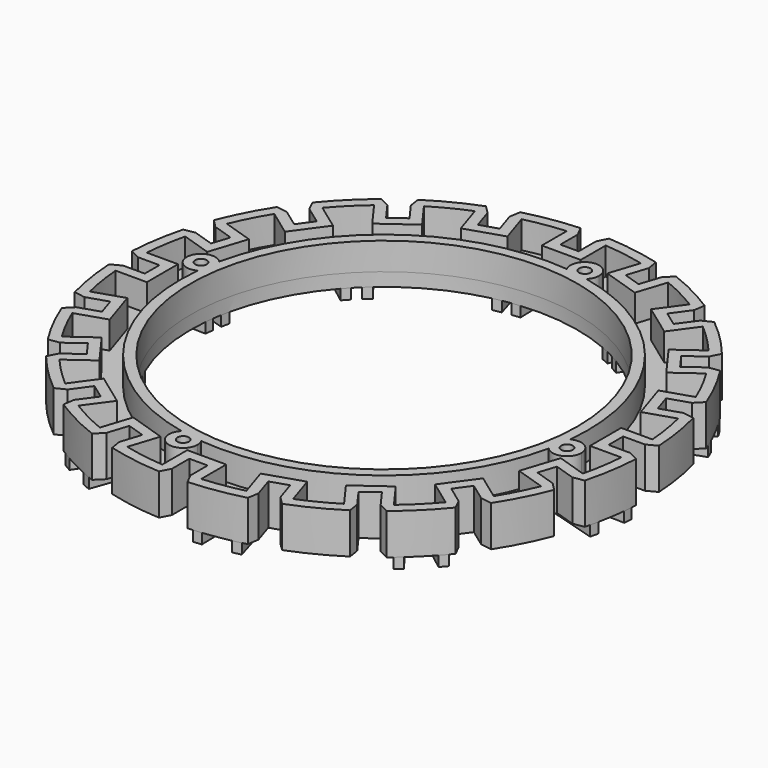
from build123d import *

# Parameters (mm, degrees)
F0_R     = 37.5
F0_R_2   = 1.125
F1_DEPTH = 2.6
F2_DEPTH = 5.3
F4_DEPTH = 2
F9_COUNT = 10


with BuildPart() as f1:
    # F0 (on Top) → F1 (new body)
    with BuildSketch(Plane.XY):
        with BuildLine():
            Line((-1.775, -49.15), (-1.775, -44.95))
            Line((-1.775, -44.95), (1.775, -44.95))
            Line((1.775, -44.95), (1.775, -49.15))
            Line((1.775, -49.15), (2.775, -51.0746696025))
            ThreePointArc((2.775, -51.0746696025), (8.0016228868, -50.5202586214), (13.1437590565, -49.4324195024))
            Line((13.1437590565, -49.4324195024), (13.5000599571, -47.2929329409))
            Line((13.5000599571, -47.2929329409), (12.2021885807, -43.2984955725))
            Line((12.2021885807, -43.2984955725), (15.5784392136, -42.2014852425))
            Line((15.5784392136, -42.2014852425), (16.87631059, -46.1959226109))
            Line((16.87631059, -46.1959226109), (18.422122722, -47.7173751836))
            ThreePointArc((18.422122722, -47.7173751836), (23.2216140617, -45.5749837122), (27.7759153986, -42.9513797656))
            Line((27.7759153986, -42.9513797656), (27.4536399852, -40.8065040963))
            Line((27.4536399852, -40.8065040963), (24.9849419255, -37.40863272))
            Line((24.9849419255, -37.40863272), (27.8569522556, -35.3219950743))
            Line((27.8569522556, -35.3219950743), (30.3256503152, -38.7198664507))
            Line((30.3256503152, -38.7198664507), (32.2659597174, -39.6891716154))
            ThreePointArc((32.2659597174, -39.6891716154), (36.1685118577, -36.1685118577), (39.6891716154, -32.2659597174))
            Line((39.6891716154, -32.2659597174), (38.7198664507, -30.3256503152))
            Line((38.7198664507, -30.3256503152), (35.3219950743, -27.8569522556))
            Line((35.3219950743, -27.8569522556), (37.40863272, -24.9849419255))
            Line((37.40863272, -24.9849419255), (40.8065040963, -27.4536399852))
            Line((40.8065040963, -27.4536399852), (42.9513797656, -27.7759153986))
            ThreePointArc((42.9513797656, -27.7759153986), (45.5749837122, -23.2216140617), (47.7173751836, -18.422122722))
            Line((47.7173751836, -18.422122722), (46.1959226109, -16.87631059))
            Line((46.1959226109, -16.87631059), (42.2014852425, -15.5784392136))
            Line((42.2014852425, -15.5784392136), (43.2984955725, -12.2021885807))
            Line((43.2984955725, -12.2021885807), (47.2929329409, -13.5000599571))
            Line((47.2929329409, -13.5000599571), (49.4324195024, -13.1437590565))
            ThreePointArc((49.4324195024, -13.1437590565), (50.5202586214, -8.0016228868), (51.0746696025, -2.775))
            Line((51.0746696025, -2.775), (49.15, -1.775))
            Line((49.15, -1.775), (44.95, -1.775))
            Line((44.95, -1.775), (44.95, 1.775))
            Line((44.95, 1.775), (49.15, 1.775))
            Line((49.15, 1.775), (51.0746696025, 2.775))
            ThreePointArc((51.0746696025, 2.775), (50.5202586214, 8.0016228868), (49.4324195024, 13.1437590565))
            Line((49.4324195024, 13.1437590565), (47.2929329409, 13.5000599571))
            Line((47.2929329409, 13.5000599571), (43.2984955725, 12.2021885807))
            Line((43.2984955725, 12.2021885807), (42.2014852425, 15.5784392136))
            Line((42.2014852425, 15.5784392136), (46.1959226109, 16.87631059))
            Line((46.1959226109, 16.87631059), (47.7173751836, 18.422122722))
            ThreePointArc((47.7173751836, 18.422122722), (45.5749837122, 23.2216140617), (42.9513797656, 27.7759153986))
            Line((42.9513797656, 27.7759153986), (40.8065040963, 27.4536399852))
            Line((40.8065040963, 27.4536399852), (37.40863272, 24.9849419255))
            Line((37.40863272, 24.9849419255), (35.3219950743, 27.8569522556))
            Line((35.3219950743, 27.8569522556), (38.7198664507, 30.3256503152))
            Line((38.7198664507, 30.3256503152), (39.6891716154, 32.2659597174))
            ThreePointArc((39.6891716154, 32.2659597174), (36.1685118577, 36.1685118577), (32.2659597174, 39.6891716154))
            Line((32.2659597174, 39.6891716154), (30.3256503152, 38.7198664507))
            Line((30.3256503152, 38.7198664507), (27.8569522556, 35.3219950743))
            Line((27.8569522556, 35.3219950743), (24.9849419255, 37.40863272))
            Line((24.9849419255, 37.40863272), (27.4536399852, 40.8065040963))
            Line((27.4536399852, 40.8065040963), (27.7759153986, 42.9513797656))
            ThreePointArc((27.7759153986, 42.9513797656), (23.2216140617, 45.5749837122), (18.422122722, 47.7173751836))
            Line((18.422122722, 47.7173751836), (16.87631059, 46.1959226109))
            Line((16.87631059, 46.1959226109), (15.5784392136, 42.2014852425))
            Line((15.5784392136, 42.2014852425), (12.2021885807, 43.2984955725))
            Line((12.2021885807, 43.2984955725), (13.5000599571, 47.2929329409))
            Line((13.5000599571, 47.2929329409), (13.1437590565, 49.4324195024))
            ThreePointArc((13.1437590565, 49.4324195024), (8.0016228868, 50.5202586214), (2.775, 51.0746696025))
            Line((2.775, 51.0746696025), (1.775, 49.15))
            Line((1.775, 49.15), (1.775, 44.95))
            Line((1.775, 44.95), (-1.775, 44.95))
            Line((-1.775, 44.95), (-1.775, 49.15))
            Line((-1.775, 49.15), (-2.775, 51.0746696025))
            ThreePointArc((-2.775, 51.0746696025), (-8.0016228868, 50.5202586214), (-13.1437590565, 49.4324195024))
            Line((-13.1437590565, 49.4324195024), (-13.5000599571, 47.2929329409))
            Line((-13.5000599571, 47.2929329409), (-12.2021885807, 43.2984955725))
            Line((-12.2021885807, 43.2984955725), (-15.5784392136, 42.2014852425))
            Line((-15.5784392136, 42.2014852425), (-16.87631059, 46.1959226109))
            Line((-16.87631059, 46.1959226109), (-18.422122722, 47.7173751836))
            ThreePointArc((-18.422122722, 47.7173751836), (-23.2216140617, 45.5749837122), (-27.7759153986, 42.9513797656))
            Line((-27.7759153986, 42.9513797656), (-27.4536399852, 40.8065040963))
            Line((-27.4536399852, 40.8065040963), (-24.9849419255, 37.40863272))
            Line((-24.9849419255, 37.40863272), (-27.8569522556, 35.3219950743))
            Line((-27.8569522556, 35.3219950743), (-30.3256503152, 38.7198664507))
            Line((-30.3256503152, 38.7198664507), (-32.2659597174, 39.6891716154))
            ThreePointArc((-32.2659597174, 39.6891716154), (-36.1685118577, 36.1685118577), (-39.6891716154, 32.2659597174))
            Line((-39.6891716154, 32.2659597174), (-38.7198664507, 30.3256503152))
            Line((-38.7198664507, 30.3256503152), (-35.3219950743, 27.8569522556))
            Line((-35.3219950743, 27.8569522556), (-37.40863272, 24.9849419255))
            Line((-37.40863272, 24.9849419255), (-40.8065040963, 27.4536399852))
            Line((-40.8065040963, 27.4536399852), (-42.9513797656, 27.7759153986))
            ThreePointArc((-42.9513797656, 27.7759153986), (-45.5749837122, 23.2216140617), (-47.7173751836, 18.422122722))
            Line((-47.7173751836, 18.422122722), (-46.1959226109, 16.87631059))
            Line((-46.1959226109, 16.87631059), (-42.2014852425, 15.5784392136))
            Line((-42.2014852425, 15.5784392136), (-43.2984955725, 12.2021885807))
            Line((-43.2984955725, 12.2021885807), (-47.2929329409, 13.5000599571))
            Line((-47.2929329409, 13.5000599571), (-49.4324195024, 13.1437590565))
            ThreePointArc((-49.4324195024, 13.1437590565), (-50.5202586214, 8.0016228868), (-51.0746696025, 2.775))
            Line((-51.0746696025, 2.775), (-49.15, 1.775))
            Line((-49.15, 1.775), (-44.95, 1.775))
            Line((-44.95, 1.775), (-44.95, -1.775))
            Line((-44.95, -1.775), (-49.15, -1.775))
            Line((-49.15, -1.775), (-51.0746696025, -2.775))
            ThreePointArc((-51.0746696025, -2.775), (-50.5202586214, -8.0016228868), (-49.4324195024, -13.1437590565))
            Line((-49.4324195024, -13.1437590565), (-47.2929329409, -13.5000599571))
            Line((-47.2929329409, -13.5000599571), (-43.2984955725, -12.2021885807))
            Line((-43.2984955725, -12.2021885807), (-42.2014852425, -15.5784392136))
            Line((-42.2014852425, -15.5784392136), (-46.1959226109, -16.87631059))
            Line((-46.1959226109, -16.87631059), (-47.7173751836, -18.422122722))
            ThreePointArc((-47.7173751836, -18.422122722), (-45.5749837122, -23.2216140617), (-42.9513797656, -27.7759153986))
            Line((-42.9513797656, -27.7759153986), (-40.8065040963, -27.4536399852))
            Line((-40.8065040963, -27.4536399852), (-37.40863272, -24.9849419255))
            Line((-37.40863272, -24.9849419255), (-35.3219950743, -27.8569522556))
            Line((-35.3219950743, -27.8569522556), (-38.7198664507, -30.3256503152))
            Line((-38.7198664507, -30.3256503152), (-39.6891716154, -32.2659597174))
            ThreePointArc((-39.6891716154, -32.2659597174), (-36.1685118577, -36.1685118577), (-32.2659597174, -39.6891716154))
            Line((-32.2659597174, -39.6891716154), (-30.3256503152, -38.7198664507))
            Line((-30.3256503152, -38.7198664507), (-27.8569522556, -35.3219950743))
            Line((-27.8569522556, -35.3219950743), (-24.9849419255, -37.40863272))
            Line((-24.9849419255, -37.40863272), (-27.4536399852, -40.8065040963))
            Line((-27.4536399852, -40.8065040963), (-27.7759153986, -42.9513797656))
            ThreePointArc((-27.7759153986, -42.9513797656), (-23.2216140617, -45.5749837122), (-18.422122722, -47.7173751836))
            Line((-18.422122722, -47.7173751836), (-16.87631059, -46.1959226109))
            Line((-16.87631059, -46.1959226109), (-15.5784392136, -42.2014852425))
            Line((-15.5784392136, -42.2014852425), (-12.2021885807, -43.2984955725))
            Line((-12.2021885807, -43.2984955725), (-13.5000599571, -47.2929329409))
            Line((-13.5000599571, -47.2929329409), (-13.1437590565, -49.4324195024))
            ThreePointArc((-13.1437590565, -49.4324195024), (-8.0016228868, -50.5202586214), (-2.775, -51.0746696025))
            Line((-2.775, -51.0746696025), (-1.775, -49.15))
        make_face()
        with BuildLine():
            Line((3.775, -42.95), (-3.775, -42.95))
            Line((-3.775, -42.95), (-3.775, -49.0048148145))
            ThreePointArc((-3.775, -49.0048148145), (-7.6887539567, -48.5448819403), (-11.5530822349, -47.7728876129))
            Line((-11.5530822349, -47.7728876129), (-9.6820415594, -42.0144165286))
            Line((-9.6820415594, -42.0144165286), (-16.8625182574, -39.6813382211))
            Line((-16.8625182574, -39.6813382211), (-18.7335589329, -45.4398093054))
            ThreePointArc((-18.7335589329, -45.4398093054), (-22.3136330622, -43.7929706639), (-25.7502682855, -41.8646173185))
            Line((-25.7502682855, -41.8646173185), (-22.1913374322, -36.9661692358))
            Line((-22.1913374322, -36.9661692358), (-28.2994157397, -32.528390581))
            Line((-28.2994157397, -32.528390581), (-31.858346593, -37.4268386637))
            ThreePointArc((-31.858346593, -37.4268386637), (-34.7542982953, -34.7542982953), (-37.4268386637, -31.858346593))
            Line((-37.4268386637, -31.858346593), (-32.528390581, -28.2994157397))
            Line((-32.528390581, -28.2994157397), (-36.9661692358, -22.1913374322))
            Line((-36.9661692358, -22.1913374322), (-41.8646173185, -25.7502682855))
            ThreePointArc((-41.8646173185, -25.7502682855), (-43.7929706639, -22.3136330622), (-45.4398093054, -18.7335589329))
            Line((-45.4398093054, -18.7335589329), (-39.6813382211, -16.8625182574))
            Line((-39.6813382211, -16.8625182574), (-42.0144165286, -9.6820415594))
            Line((-42.0144165286, -9.6820415594), (-47.7728876129, -11.5530822349))
            ThreePointArc((-47.7728876129, -11.5530822349), (-48.5448819403, -7.6887539567), (-49.0048148145, -3.775))
            Line((-49.0048148145, -3.775), (-42.95, -3.775))
            Line((-42.95, -3.775), (-42.95, 3.775))
            Line((-42.95, 3.775), (-49.0048148145, 3.775))
            ThreePointArc((-49.0048148145, 3.775), (-48.5448819403, 7.6887539567), (-47.7728876129, 11.5530822349))
            Line((-47.7728876129, 11.5530822349), (-42.0144165286, 9.6820415594))
            Line((-42.0144165286, 9.6820415594), (-39.6813382211, 16.8625182574))
            Line((-39.6813382211, 16.8625182574), (-45.4398093054, 18.7335589329))
            ThreePointArc((-45.4398093054, 18.7335589329), (-43.7929706639, 22.3136330622), (-41.8646173185, 25.7502682855))
            Line((-41.8646173185, 25.7502682855), (-36.9661692358, 22.1913374322))
            Line((-36.9661692358, 22.1913374322), (-32.528390581, 28.2994157397))
            Line((-32.528390581, 28.2994157397), (-37.4268386637, 31.858346593))
            ThreePointArc((-37.4268386637, 31.858346593), (-34.7542982953, 34.7542982953), (-31.858346593, 37.4268386637))
            Line((-31.858346593, 37.4268386637), (-28.2994157397, 32.528390581))
            Line((-28.2994157397, 32.528390581), (-22.1913374322, 36.9661692358))
            Line((-22.1913374322, 36.9661692358), (-25.7502682855, 41.8646173185))
            ThreePointArc((-25.7502682855, 41.8646173185), (-22.3136330622, 43.7929706639), (-18.7335589329, 45.4398093054))
            Line((-18.7335589329, 45.4398093054), (-16.8625182574, 39.6813382211))
            Line((-16.8625182574, 39.6813382211), (-9.6820415594, 42.0144165286))
            Line((-9.6820415594, 42.0144165286), (-11.5530822349, 47.7728876129))
            ThreePointArc((-11.5530822349, 47.7728876129), (-7.6887539567, 48.5448819403), (-3.775, 49.0048148145))
            Line((-3.775, 49.0048148145), (-3.775, 42.95))
            Line((-3.775, 42.95), (3.775, 42.95))
            Line((3.775, 42.95), (3.775, 49.0048148145))
            ThreePointArc((3.775, 49.0048148145), (7.6887539567, 48.5448819403), (11.5530822349, 47.7728876129))
            Line((11.5530822349, 47.7728876129), (9.6820415594, 42.0144165286))
            Line((9.6820415594, 42.0144165286), (16.8625182574, 39.6813382211))
            Line((16.8625182574, 39.6813382211), (18.7335589329, 45.4398093054))
            ThreePointArc((18.7335589329, 45.4398093054), (22.3136330622, 43.7929706639), (25.7502682855, 41.8646173185))
            Line((25.7502682855, 41.8646173185), (22.1913374322, 36.9661692358))
            Line((22.1913374322, 36.9661692358), (28.2994157397, 32.528390581))
            Line((28.2994157397, 32.528390581), (31.858346593, 37.4268386637))
            ThreePointArc((31.858346593, 37.4268386637), (34.7542982953, 34.7542982953), (37.4268386637, 31.858346593))
            Line((37.4268386637, 31.858346593), (32.528390581, 28.2994157397))
            Line((32.528390581, 28.2994157397), (36.9661692358, 22.1913374322))
            Line((36.9661692358, 22.1913374322), (41.8646173185, 25.7502682855))
            ThreePointArc((41.8646173185, 25.7502682855), (43.7929706639, 22.3136330622), (45.4398093054, 18.7335589329))
            Line((45.4398093054, 18.7335589329), (39.6813382211, 16.8625182574))
            Line((39.6813382211, 16.8625182574), (42.0144165286, 9.6820415594))
            Line((42.0144165286, 9.6820415594), (47.7728876129, 11.5530822349))
            ThreePointArc((47.7728876129, 11.5530822349), (48.5448819403, 7.6887539567), (49.0048148145, 3.775))
            Line((49.0048148145, 3.775), (42.95, 3.775))
            Line((42.95, 3.775), (42.95, -3.775))
            Line((42.95, -3.775), (49.0048148145, -3.775))
            ThreePointArc((49.0048148145, -3.775), (48.5448819403, -7.6887539567), (47.7728876129, -11.5530822349))
            Line((47.7728876129, -11.5530822349), (42.0144165286, -9.6820415594))
            Line((42.0144165286, -9.6820415594), (39.6813382211, -16.8625182574))
            Line((39.6813382211, -16.8625182574), (45.4398093054, -18.7335589329))
            ThreePointArc((45.4398093054, -18.7335589329), (43.7929706639, -22.3136330622), (41.8646173185, -25.7502682855))
            Line((41.8646173185, -25.7502682855), (36.9661692358, -22.1913374322))
            Line((36.9661692358, -22.1913374322), (32.528390581, -28.2994157397))
            Line((32.528390581, -28.2994157397), (37.4268386637, -31.858346593))
            ThreePointArc((37.4268386637, -31.858346593), (34.7542982953, -34.7542982953), (31.858346593, -37.4268386637))
            Line((31.858346593, -37.4268386637), (28.2994157397, -32.528390581))
            Line((28.2994157397, -32.528390581), (22.1913374322, -36.9661692358))
            Line((22.1913374322, -36.9661692358), (25.7502682855, -41.8646173185))
            ThreePointArc((25.7502682855, -41.8646173185), (22.3136330622, -43.7929706639), (18.7335589329, -45.4398093054))
            Line((18.7335589329, -45.4398093054), (16.8625182574, -39.6813382211))
            Line((16.8625182574, -39.6813382211), (9.6820415594, -42.0144165286))
            Line((9.6820415594, -42.0144165286), (11.5530822349, -47.7728876129))
            ThreePointArc((11.5530822349, -47.7728876129), (7.6887539567, -48.5448819403), (3.775, -49.0048148145))
            Line((3.775, -49.0048148145), (3.775, -42.95))
        make_face(mode=Mode.SUBTRACT)
        with BuildLine():
            Line((-3.775, -49.0048148145), (-3.775, -42.95))
            Line((-3.775, -42.95), (3.775, -42.95))
            Line((3.775, -42.95), (3.775, -49.0048148145))
            ThreePointArc((3.775, -49.0048148145), (7.6887539567, -48.5448819403), (11.5530822349, -47.7728876129))
            Line((11.5530822349, -47.7728876129), (9.6820415594, -42.0144165286))
            Line((9.6820415594, -42.0144165286), (16.8625182574, -39.6813382211))
            Line((16.8625182574, -39.6813382211), (18.7335589329, -45.4398093054))
            ThreePointArc((18.7335589329, -45.4398093054), (22.3136330622, -43.7929706639), (25.7502682855, -41.8646173185))
            Line((25.7502682855, -41.8646173185), (22.1913374322, -36.9661692358))
            Line((22.1913374322, -36.9661692358), (28.2994157397, -32.528390581))
            Line((28.2994157397, -32.528390581), (31.858346593, -37.4268386637))
            ThreePointArc((31.858346593, -37.4268386637), (34.7542982953, -34.7542982953), (37.4268386637, -31.858346593))
            Line((37.4268386637, -31.858346593), (32.528390581, -28.2994157397))
            Line((32.528390581, -28.2994157397), (36.9661692358, -22.1913374322))
            Line((36.9661692358, -22.1913374322), (41.8646173185, -25.7502682855))
            ThreePointArc((41.8646173185, -25.7502682855), (43.7929706639, -22.3136330622), (45.4398093054, -18.7335589329))
            Line((45.4398093054, -18.7335589329), (39.6813382211, -16.8625182574))
            Line((39.6813382211, -16.8625182574), (42.0144165286, -9.6820415594))
            Line((42.0144165286, -9.6820415594), (47.7728876129, -11.5530822349))
            ThreePointArc((47.7728876129, -11.5530822349), (48.5448819403, -7.6887539567), (49.0048148145, -3.775))
            Line((49.0048148145, -3.775), (42.95, -3.775))
            Line((42.95, -3.775), (42.95, 3.775))
            Line((42.95, 3.775), (49.0048148145, 3.775))
            ThreePointArc((49.0048148145, 3.775), (48.5448819403, 7.6887539567), (47.7728876129, 11.5530822349))
            Line((47.7728876129, 11.5530822349), (42.0144165286, 9.6820415594))
            Line((42.0144165286, 9.6820415594), (39.6813382211, 16.8625182574))
            Line((39.6813382211, 16.8625182574), (45.4398093054, 18.7335589329))
            ThreePointArc((45.4398093054, 18.7335589329), (43.7929706639, 22.3136330622), (41.8646173185, 25.7502682855))
            Line((41.8646173185, 25.7502682855), (36.9661692358, 22.1913374322))
            Line((36.9661692358, 22.1913374322), (32.528390581, 28.2994157397))
            Line((32.528390581, 28.2994157397), (37.4268386637, 31.858346593))
            ThreePointArc((37.4268386637, 31.858346593), (34.7542982953, 34.7542982953), (31.858346593, 37.4268386637))
            Line((31.858346593, 37.4268386637), (28.2994157397, 32.528390581))
            Line((28.2994157397, 32.528390581), (22.1913374322, 36.9661692358))
            Line((22.1913374322, 36.9661692358), (25.7502682855, 41.8646173185))
            ThreePointArc((25.7502682855, 41.8646173185), (22.3136330622, 43.7929706639), (18.7335589329, 45.4398093054))
            Line((18.7335589329, 45.4398093054), (16.8625182574, 39.6813382211))
            Line((16.8625182574, 39.6813382211), (9.6820415594, 42.0144165286))
            Line((9.6820415594, 42.0144165286), (11.5530822349, 47.7728876129))
            ThreePointArc((11.5530822349, 47.7728876129), (7.6887539567, 48.5448819403), (3.775, 49.0048148145))
            Line((3.775, 49.0048148145), (3.775, 42.95))
            Line((3.775, 42.95), (-3.775, 42.95))
            Line((-3.775, 42.95), (-3.775, 49.0048148145))
            ThreePointArc((-3.775, 49.0048148145), (-7.6887539567, 48.5448819403), (-11.5530822349, 47.7728876129))
            Line((-11.5530822349, 47.7728876129), (-9.6820415594, 42.0144165286))
            Line((-9.6820415594, 42.0144165286), (-16.8625182574, 39.6813382211))
            Line((-16.8625182574, 39.6813382211), (-18.7335589329, 45.4398093054))
            ThreePointArc((-18.7335589329, 45.4398093054), (-22.3136330622, 43.7929706639), (-25.7502682855, 41.8646173185))
            Line((-25.7502682855, 41.8646173185), (-22.1913374322, 36.9661692358))
            Line((-22.1913374322, 36.9661692358), (-28.2994157397, 32.528390581))
            Line((-28.2994157397, 32.528390581), (-31.858346593, 37.4268386637))
            ThreePointArc((-31.858346593, 37.4268386637), (-34.7542982953, 34.7542982953), (-37.4268386637, 31.858346593))
            Line((-37.4268386637, 31.858346593), (-32.528390581, 28.2994157397))
            Line((-32.528390581, 28.2994157397), (-36.9661692358, 22.1913374322))
            Line((-36.9661692358, 22.1913374322), (-41.8646173185, 25.7502682855))
            ThreePointArc((-41.8646173185, 25.7502682855), (-43.7929706639, 22.3136330622), (-45.4398093054, 18.7335589329))
            Line((-45.4398093054, 18.7335589329), (-39.6813382211, 16.8625182574))
            Line((-39.6813382211, 16.8625182574), (-42.0144165286, 9.6820415594))
            Line((-42.0144165286, 9.6820415594), (-47.7728876129, 11.5530822349))
            ThreePointArc((-47.7728876129, 11.5530822349), (-48.5448819403, 7.6887539567), (-49.0048148145, 3.775))
            Line((-49.0048148145, 3.775), (-42.95, 3.775))
            Line((-42.95, 3.775), (-42.95, -3.775))
            Line((-42.95, -3.775), (-49.0048148145, -3.775))
            ThreePointArc((-49.0048148145, -3.775), (-48.5448819403, -7.6887539567), (-47.7728876129, -11.5530822349))
            Line((-47.7728876129, -11.5530822349), (-42.0144165286, -9.6820415594))
            Line((-42.0144165286, -9.6820415594), (-39.6813382211, -16.8625182574))
            Line((-39.6813382211, -16.8625182574), (-45.4398093054, -18.7335589329))
            ThreePointArc((-45.4398093054, -18.7335589329), (-43.7929706639, -22.3136330622), (-41.8646173185, -25.7502682855))
            Line((-41.8646173185, -25.7502682855), (-36.9661692358, -22.1913374322))
            Line((-36.9661692358, -22.1913374322), (-32.528390581, -28.2994157397))
            Line((-32.528390581, -28.2994157397), (-37.4268386637, -31.858346593))
            ThreePointArc((-37.4268386637, -31.858346593), (-34.7542982953, -34.7542982953), (-31.858346593, -37.4268386637))
            Line((-31.858346593, -37.4268386637), (-28.2994157397, -32.528390581))
            Line((-28.2994157397, -32.528390581), (-22.1913374322, -36.9661692358))
            Line((-22.1913374322, -36.9661692358), (-25.7502682855, -41.8646173185))
            ThreePointArc((-25.7502682855, -41.8646173185), (-22.3136330622, -43.7929706639), (-18.7335589329, -45.4398093054))
            Line((-18.7335589329, -45.4398093054), (-16.8625182574, -39.6813382211))
            Line((-16.8625182574, -39.6813382211), (-9.6820415594, -42.0144165286))
            Line((-9.6820415594, -42.0144165286), (-11.5530822349, -47.7728876129))
            ThreePointArc((-11.5530822349, -47.7728876129), (-7.6887539567, -48.5448819403), (-3.775, -49.0048148145))
        make_face()
        with BuildLine():
            ThreePointArc((8.3461024153, 38.6081931003), (31.9561712778, 23.2175174656), (39.2976611136, -3.9929727024))
            ThreePointArc((39.2976611136, -3.9929727024), (42.0390331831, -4.0494146955), (43.393683007, -6.4333673748))
            ThreePointArc((43.393683007, -6.4333673748), (41.6486139535, -9.0101613606), (38.6081931003, -8.3461024153))
            ThreePointArc((38.6081931003, -8.3461024153), (23.2175174656, -31.9561712778), (-3.9929727024, -39.2976611136))
            ThreePointArc((-3.9929727024, -39.2976611136), (-3.743319028, -39.9373131426), (-3.6583673748, -40.618683007))
            ThreePointArc((-3.6583673748, -40.618683007), (-7.5271647195, -43.1690226645), (-8.3461024153, -38.6081931003))
            ThreePointArc((-8.3461024153, -38.6081931003), (-31.9561712778, -23.2175174656), (-39.2976611136, 3.9929727024))
            ThreePointArc((-39.2976611136, 3.9929727024), (-43.3595181521, 6.8674730153), (-38.6081931003, 8.3461024153))
            ThreePointArc((-38.6081931003, 8.3461024153), (-23.2175174656, 31.9561712778), (3.9929727024, 39.2976611136))
            ThreePointArc((3.9929727024, 39.2976611136), (5.7519975105, 43.3087313537), (9.2083673748, 40.618683007))
            ThreePointArc((9.2083673748, 40.618683007), (8.9837070323, 39.5248856623), (8.3461024153, 38.6081931003))
        make_face(mode=Mode.SUBTRACT)
        with BuildLine():
            ThreePointArc((38.6081931003, -8.3461024153), (37.8778478618, -5.9992617343), (39.2976611136, -3.9929727024))
            ThreePointArc((39.2976611136, -3.9929727024), (31.9561712778, 23.2175174656), (8.3461024153, 38.6081931003))
            ThreePointArc((8.3461024153, 38.6081931003), (5.9992617343, 37.8778478618), (3.9929727024, 39.2976611136))
            ThreePointArc((3.9929727024, 39.2976611136), (-23.2175174656, 31.9561712778), (-38.6081931003, 8.3461024153))
            ThreePointArc((-38.6081931003, 8.3461024153), (-38.0418890211, 7.4632983213), (-37.843683007, 6.4333673748))
            ThreePointArc((-37.843683007, 6.4333673748), (-38.2347303277, 5.0130171986), (-39.2976611136, 3.9929727024))
            ThreePointArc((-39.2976611136, 3.9929727024), (-31.9561712778, -23.2175174656), (-8.3461024153, -38.6081931003))
            ThreePointArc((-8.3461024153, -38.6081931003), (-5.9992617343, -37.8778478618), (-3.9929727024, -39.2976611136))
            ThreePointArc((-3.9929727024, -39.2976611136), (23.2175174656, -31.9561712778), (38.6081931003, -8.3461024153))
        make_face()
        Circle(F0_R, mode=Mode.SUBTRACT)
        with BuildLine():
            ThreePointArc((3.9929727024, 39.2976611136), (5.9992617343, 37.8778478618), (8.3461024153, 38.6081931003))
            ThreePointArc((8.3461024153, 38.6081931003), (8.9837070323, 39.5248856623), (9.2083673748, 40.618683007))
            ThreePointArc((9.2083673748, 40.618683007), (5.7519975105, 43.3087313537), (3.9929727024, 39.2976611136))
        make_face()
        with Locations((6.4333673748, 40.618683007)):
            Circle(F0_R_2, mode=Mode.SUBTRACT)
        with BuildLine():
            ThreePointArc((-37.843683007, 6.4333673748), (-38.0418890211, 7.4632983213), (-38.6081931003, 8.3461024153))
            ThreePointArc((-38.6081931003, 8.3461024153), (-43.3595181521, 6.8674730153), (-39.2976611136, 3.9929727024))
            ThreePointArc((-39.2976611136, 3.9929727024), (-38.2347303277, 5.0130171986), (-37.843683007, 6.4333673748))
        make_face()
        with Locations((-40.618683007, 6.4333673748)):
            Circle(F0_R_2, mode=Mode.SUBTRACT)
        with BuildLine():
            ThreePointArc((-3.6583673748, -40.618683007), (-3.743319028, -39.9373131426), (-3.9929727024, -39.2976611136))
            ThreePointArc((-3.9929727024, -39.2976611136), (-5.9992617343, -37.8778478618), (-8.3461024153, -38.6081931003))
            ThreePointArc((-8.3461024153, -38.6081931003), (-7.5271647195, -43.1690226645), (-3.6583673748, -40.618683007))
        make_face()
        with Locations((-6.4333673748, -40.618683007)):
            Circle(F0_R_2, mode=Mode.SUBTRACT)
        with BuildLine():
            ThreePointArc((43.393683007, -6.4333673748), (42.0390331831, -4.0494146955), (39.2976611136, -3.9929727024))
            ThreePointArc((39.2976611136, -3.9929727024), (37.8778478618, -5.9992617343), (38.6081931003, -8.3461024153))
            ThreePointArc((38.6081931003, -8.3461024153), (41.6486139535, -9.0101613606), (43.393683007, -6.4333673748))
        make_face()
        with Locations((40.618683007, -6.4333673748)):
            Circle(F0_R_2, mode=Mode.SUBTRACT)
        with Locations((6.4333673748, 40.618683007)):
            Circle(F0_R_2)
        with Locations((-40.618683007, 6.4333673748)):
            Circle(F0_R_2)
        with Locations((-6.4333673748, -40.618683007)):
            Circle(F0_R_2)
        with Locations((40.618683007, -6.4333673748)):
            Circle(F0_R_2)
    extrude(amount=-F1_DEPTH)

    # F0 (on Top) → F2 (join)
    with BuildSketch(Plane.XY):
        with BuildLine():
            Line((-1.775, -49.15), (-1.775, -44.95))
            Line((-1.775, -44.95), (1.775, -44.95))
            Line((1.775, -44.95), (1.775, -49.15))
            Line((1.775, -49.15), (2.775, -51.0746696025))
            ThreePointArc((2.775, -51.0746696025), (8.0016228868, -50.5202586214), (13.1437590565, -49.4324195024))
            Line((13.1437590565, -49.4324195024), (13.5000599571, -47.2929329409))
            Line((13.5000599571, -47.2929329409), (12.2021885807, -43.2984955725))
            Line((12.2021885807, -43.2984955725), (15.5784392136, -42.2014852425))
            Line((15.5784392136, -42.2014852425), (16.87631059, -46.1959226109))
            Line((16.87631059, -46.1959226109), (18.422122722, -47.7173751836))
            ThreePointArc((18.422122722, -47.7173751836), (23.2216140617, -45.5749837122), (27.7759153986, -42.9513797656))
            Line((27.7759153986, -42.9513797656), (27.4536399852, -40.8065040963))
            Line((27.4536399852, -40.8065040963), (24.9849419255, -37.40863272))
            Line((24.9849419255, -37.40863272), (27.8569522556, -35.3219950743))
            Line((27.8569522556, -35.3219950743), (30.3256503152, -38.7198664507))
            Line((30.3256503152, -38.7198664507), (32.2659597174, -39.6891716154))
            ThreePointArc((32.2659597174, -39.6891716154), (36.1685118577, -36.1685118577), (39.6891716154, -32.2659597174))
            Line((39.6891716154, -32.2659597174), (38.7198664507, -30.3256503152))
            Line((38.7198664507, -30.3256503152), (35.3219950743, -27.8569522556))
            Line((35.3219950743, -27.8569522556), (37.40863272, -24.9849419255))
            Line((37.40863272, -24.9849419255), (40.8065040963, -27.4536399852))
            Line((40.8065040963, -27.4536399852), (42.9513797656, -27.7759153986))
            ThreePointArc((42.9513797656, -27.7759153986), (45.5749837122, -23.2216140617), (47.7173751836, -18.422122722))
            Line((47.7173751836, -18.422122722), (46.1959226109, -16.87631059))
            Line((46.1959226109, -16.87631059), (42.2014852425, -15.5784392136))
            Line((42.2014852425, -15.5784392136), (43.2984955725, -12.2021885807))
            Line((43.2984955725, -12.2021885807), (47.2929329409, -13.5000599571))
            Line((47.2929329409, -13.5000599571), (49.4324195024, -13.1437590565))
            ThreePointArc((49.4324195024, -13.1437590565), (50.5202586214, -8.0016228868), (51.0746696025, -2.775))
            Line((51.0746696025, -2.775), (49.15, -1.775))
            Line((49.15, -1.775), (44.95, -1.775))
            Line((44.95, -1.775), (44.95, 1.775))
            Line((44.95, 1.775), (49.15, 1.775))
            Line((49.15, 1.775), (51.0746696025, 2.775))
            ThreePointArc((51.0746696025, 2.775), (50.5202586214, 8.0016228868), (49.4324195024, 13.1437590565))
            Line((49.4324195024, 13.1437590565), (47.2929329409, 13.5000599571))
            Line((47.2929329409, 13.5000599571), (43.2984955725, 12.2021885807))
            Line((43.2984955725, 12.2021885807), (42.2014852425, 15.5784392136))
            Line((42.2014852425, 15.5784392136), (46.1959226109, 16.87631059))
            Line((46.1959226109, 16.87631059), (47.7173751836, 18.422122722))
            ThreePointArc((47.7173751836, 18.422122722), (45.5749837122, 23.2216140617), (42.9513797656, 27.7759153986))
            Line((42.9513797656, 27.7759153986), (40.8065040963, 27.4536399852))
            Line((40.8065040963, 27.4536399852), (37.40863272, 24.9849419255))
            Line((37.40863272, 24.9849419255), (35.3219950743, 27.8569522556))
            Line((35.3219950743, 27.8569522556), (38.7198664507, 30.3256503152))
            Line((38.7198664507, 30.3256503152), (39.6891716154, 32.2659597174))
            ThreePointArc((39.6891716154, 32.2659597174), (36.1685118577, 36.1685118577), (32.2659597174, 39.6891716154))
            Line((32.2659597174, 39.6891716154), (30.3256503152, 38.7198664507))
            Line((30.3256503152, 38.7198664507), (27.8569522556, 35.3219950743))
            Line((27.8569522556, 35.3219950743), (24.9849419255, 37.40863272))
            Line((24.9849419255, 37.40863272), (27.4536399852, 40.8065040963))
            Line((27.4536399852, 40.8065040963), (27.7759153986, 42.9513797656))
            ThreePointArc((27.7759153986, 42.9513797656), (23.2216140617, 45.5749837122), (18.422122722, 47.7173751836))
            Line((18.422122722, 47.7173751836), (16.87631059, 46.1959226109))
            Line((16.87631059, 46.1959226109), (15.5784392136, 42.2014852425))
            Line((15.5784392136, 42.2014852425), (12.2021885807, 43.2984955725))
            Line((12.2021885807, 43.2984955725), (13.5000599571, 47.2929329409))
            Line((13.5000599571, 47.2929329409), (13.1437590565, 49.4324195024))
            ThreePointArc((13.1437590565, 49.4324195024), (8.0016228868, 50.5202586214), (2.775, 51.0746696025))
            Line((2.775, 51.0746696025), (1.775, 49.15))
            Line((1.775, 49.15), (1.775, 44.95))
            Line((1.775, 44.95), (-1.775, 44.95))
            Line((-1.775, 44.95), (-1.775, 49.15))
            Line((-1.775, 49.15), (-2.775, 51.0746696025))
            ThreePointArc((-2.775, 51.0746696025), (-8.0016228868, 50.5202586214), (-13.1437590565, 49.4324195024))
            Line((-13.1437590565, 49.4324195024), (-13.5000599571, 47.2929329409))
            Line((-13.5000599571, 47.2929329409), (-12.2021885807, 43.2984955725))
            Line((-12.2021885807, 43.2984955725), (-15.5784392136, 42.2014852425))
            Line((-15.5784392136, 42.2014852425), (-16.87631059, 46.1959226109))
            Line((-16.87631059, 46.1959226109), (-18.422122722, 47.7173751836))
            ThreePointArc((-18.422122722, 47.7173751836), (-23.2216140617, 45.5749837122), (-27.7759153986, 42.9513797656))
            Line((-27.7759153986, 42.9513797656), (-27.4536399852, 40.8065040963))
            Line((-27.4536399852, 40.8065040963), (-24.9849419255, 37.40863272))
            Line((-24.9849419255, 37.40863272), (-27.8569522556, 35.3219950743))
            Line((-27.8569522556, 35.3219950743), (-30.3256503152, 38.7198664507))
            Line((-30.3256503152, 38.7198664507), (-32.2659597174, 39.6891716154))
            ThreePointArc((-32.2659597174, 39.6891716154), (-36.1685118577, 36.1685118577), (-39.6891716154, 32.2659597174))
            Line((-39.6891716154, 32.2659597174), (-38.7198664507, 30.3256503152))
            Line((-38.7198664507, 30.3256503152), (-35.3219950743, 27.8569522556))
            Line((-35.3219950743, 27.8569522556), (-37.40863272, 24.9849419255))
            Line((-37.40863272, 24.9849419255), (-40.8065040963, 27.4536399852))
            Line((-40.8065040963, 27.4536399852), (-42.9513797656, 27.7759153986))
            ThreePointArc((-42.9513797656, 27.7759153986), (-45.5749837122, 23.2216140617), (-47.7173751836, 18.422122722))
            Line((-47.7173751836, 18.422122722), (-46.1959226109, 16.87631059))
            Line((-46.1959226109, 16.87631059), (-42.2014852425, 15.5784392136))
            Line((-42.2014852425, 15.5784392136), (-43.2984955725, 12.2021885807))
            Line((-43.2984955725, 12.2021885807), (-47.2929329409, 13.5000599571))
            Line((-47.2929329409, 13.5000599571), (-49.4324195024, 13.1437590565))
            ThreePointArc((-49.4324195024, 13.1437590565), (-50.5202586214, 8.0016228868), (-51.0746696025, 2.775))
            Line((-51.0746696025, 2.775), (-49.15, 1.775))
            Line((-49.15, 1.775), (-44.95, 1.775))
            Line((-44.95, 1.775), (-44.95, -1.775))
            Line((-44.95, -1.775), (-49.15, -1.775))
            Line((-49.15, -1.775), (-51.0746696025, -2.775))
            ThreePointArc((-51.0746696025, -2.775), (-50.5202586214, -8.0016228868), (-49.4324195024, -13.1437590565))
            Line((-49.4324195024, -13.1437590565), (-47.2929329409, -13.5000599571))
            Line((-47.2929329409, -13.5000599571), (-43.2984955725, -12.2021885807))
            Line((-43.2984955725, -12.2021885807), (-42.2014852425, -15.5784392136))
            Line((-42.2014852425, -15.5784392136), (-46.1959226109, -16.87631059))
            Line((-46.1959226109, -16.87631059), (-47.7173751836, -18.422122722))
            ThreePointArc((-47.7173751836, -18.422122722), (-45.5749837122, -23.2216140617), (-42.9513797656, -27.7759153986))
            Line((-42.9513797656, -27.7759153986), (-40.8065040963, -27.4536399852))
            Line((-40.8065040963, -27.4536399852), (-37.40863272, -24.9849419255))
            Line((-37.40863272, -24.9849419255), (-35.3219950743, -27.8569522556))
            Line((-35.3219950743, -27.8569522556), (-38.7198664507, -30.3256503152))
            Line((-38.7198664507, -30.3256503152), (-39.6891716154, -32.2659597174))
            ThreePointArc((-39.6891716154, -32.2659597174), (-36.1685118577, -36.1685118577), (-32.2659597174, -39.6891716154))
            Line((-32.2659597174, -39.6891716154), (-30.3256503152, -38.7198664507))
            Line((-30.3256503152, -38.7198664507), (-27.8569522556, -35.3219950743))
            Line((-27.8569522556, -35.3219950743), (-24.9849419255, -37.40863272))
            Line((-24.9849419255, -37.40863272), (-27.4536399852, -40.8065040963))
            Line((-27.4536399852, -40.8065040963), (-27.7759153986, -42.9513797656))
            ThreePointArc((-27.7759153986, -42.9513797656), (-23.2216140617, -45.5749837122), (-18.422122722, -47.7173751836))
            Line((-18.422122722, -47.7173751836), (-16.87631059, -46.1959226109))
            Line((-16.87631059, -46.1959226109), (-15.5784392136, -42.2014852425))
            Line((-15.5784392136, -42.2014852425), (-12.2021885807, -43.2984955725))
            Line((-12.2021885807, -43.2984955725), (-13.5000599571, -47.2929329409))
            Line((-13.5000599571, -47.2929329409), (-13.1437590565, -49.4324195024))
            ThreePointArc((-13.1437590565, -49.4324195024), (-8.0016228868, -50.5202586214), (-2.775, -51.0746696025))
            Line((-2.775, -51.0746696025), (-1.775, -49.15))
        make_face()
        with BuildLine():
            Line((3.775, -42.95), (-3.775, -42.95))
            Line((-3.775, -42.95), (-3.775, -49.0048148145))
            ThreePointArc((-3.775, -49.0048148145), (-7.6887539567, -48.5448819403), (-11.5530822349, -47.7728876129))
            Line((-11.5530822349, -47.7728876129), (-9.6820415594, -42.0144165286))
            Line((-9.6820415594, -42.0144165286), (-16.8625182574, -39.6813382211))
            Line((-16.8625182574, -39.6813382211), (-18.7335589329, -45.4398093054))
            ThreePointArc((-18.7335589329, -45.4398093054), (-22.3136330622, -43.7929706639), (-25.7502682855, -41.8646173185))
            Line((-25.7502682855, -41.8646173185), (-22.1913374322, -36.9661692358))
            Line((-22.1913374322, -36.9661692358), (-28.2994157397, -32.528390581))
            Line((-28.2994157397, -32.528390581), (-31.858346593, -37.4268386637))
            ThreePointArc((-31.858346593, -37.4268386637), (-34.7542982953, -34.7542982953), (-37.4268386637, -31.858346593))
            Line((-37.4268386637, -31.858346593), (-32.528390581, -28.2994157397))
            Line((-32.528390581, -28.2994157397), (-36.9661692358, -22.1913374322))
            Line((-36.9661692358, -22.1913374322), (-41.8646173185, -25.7502682855))
            ThreePointArc((-41.8646173185, -25.7502682855), (-43.7929706639, -22.3136330622), (-45.4398093054, -18.7335589329))
            Line((-45.4398093054, -18.7335589329), (-39.6813382211, -16.8625182574))
            Line((-39.6813382211, -16.8625182574), (-42.0144165286, -9.6820415594))
            Line((-42.0144165286, -9.6820415594), (-47.7728876129, -11.5530822349))
            ThreePointArc((-47.7728876129, -11.5530822349), (-48.5448819403, -7.6887539567), (-49.0048148145, -3.775))
            Line((-49.0048148145, -3.775), (-42.95, -3.775))
            Line((-42.95, -3.775), (-42.95, 3.775))
            Line((-42.95, 3.775), (-49.0048148145, 3.775))
            ThreePointArc((-49.0048148145, 3.775), (-48.5448819403, 7.6887539567), (-47.7728876129, 11.5530822349))
            Line((-47.7728876129, 11.5530822349), (-42.0144165286, 9.6820415594))
            Line((-42.0144165286, 9.6820415594), (-39.6813382211, 16.8625182574))
            Line((-39.6813382211, 16.8625182574), (-45.4398093054, 18.7335589329))
            ThreePointArc((-45.4398093054, 18.7335589329), (-43.7929706639, 22.3136330622), (-41.8646173185, 25.7502682855))
            Line((-41.8646173185, 25.7502682855), (-36.9661692358, 22.1913374322))
            Line((-36.9661692358, 22.1913374322), (-32.528390581, 28.2994157397))
            Line((-32.528390581, 28.2994157397), (-37.4268386637, 31.858346593))
            ThreePointArc((-37.4268386637, 31.858346593), (-34.7542982953, 34.7542982953), (-31.858346593, 37.4268386637))
            Line((-31.858346593, 37.4268386637), (-28.2994157397, 32.528390581))
            Line((-28.2994157397, 32.528390581), (-22.1913374322, 36.9661692358))
            Line((-22.1913374322, 36.9661692358), (-25.7502682855, 41.8646173185))
            ThreePointArc((-25.7502682855, 41.8646173185), (-22.3136330622, 43.7929706639), (-18.7335589329, 45.4398093054))
            Line((-18.7335589329, 45.4398093054), (-16.8625182574, 39.6813382211))
            Line((-16.8625182574, 39.6813382211), (-9.6820415594, 42.0144165286))
            Line((-9.6820415594, 42.0144165286), (-11.5530822349, 47.7728876129))
            ThreePointArc((-11.5530822349, 47.7728876129), (-7.6887539567, 48.5448819403), (-3.775, 49.0048148145))
            Line((-3.775, 49.0048148145), (-3.775, 42.95))
            Line((-3.775, 42.95), (3.775, 42.95))
            Line((3.775, 42.95), (3.775, 49.0048148145))
            ThreePointArc((3.775, 49.0048148145), (7.6887539567, 48.5448819403), (11.5530822349, 47.7728876129))
            Line((11.5530822349, 47.7728876129), (9.6820415594, 42.0144165286))
            Line((9.6820415594, 42.0144165286), (16.8625182574, 39.6813382211))
            Line((16.8625182574, 39.6813382211), (18.7335589329, 45.4398093054))
            ThreePointArc((18.7335589329, 45.4398093054), (22.3136330622, 43.7929706639), (25.7502682855, 41.8646173185))
            Line((25.7502682855, 41.8646173185), (22.1913374322, 36.9661692358))
            Line((22.1913374322, 36.9661692358), (28.2994157397, 32.528390581))
            Line((28.2994157397, 32.528390581), (31.858346593, 37.4268386637))
            ThreePointArc((31.858346593, 37.4268386637), (34.7542982953, 34.7542982953), (37.4268386637, 31.858346593))
            Line((37.4268386637, 31.858346593), (32.528390581, 28.2994157397))
            Line((32.528390581, 28.2994157397), (36.9661692358, 22.1913374322))
            Line((36.9661692358, 22.1913374322), (41.8646173185, 25.7502682855))
            ThreePointArc((41.8646173185, 25.7502682855), (43.7929706639, 22.3136330622), (45.4398093054, 18.7335589329))
            Line((45.4398093054, 18.7335589329), (39.6813382211, 16.8625182574))
            Line((39.6813382211, 16.8625182574), (42.0144165286, 9.6820415594))
            Line((42.0144165286, 9.6820415594), (47.7728876129, 11.5530822349))
            ThreePointArc((47.7728876129, 11.5530822349), (48.5448819403, 7.6887539567), (49.0048148145, 3.775))
            Line((49.0048148145, 3.775), (42.95, 3.775))
            Line((42.95, 3.775), (42.95, -3.775))
            Line((42.95, -3.775), (49.0048148145, -3.775))
            ThreePointArc((49.0048148145, -3.775), (48.5448819403, -7.6887539567), (47.7728876129, -11.5530822349))
            Line((47.7728876129, -11.5530822349), (42.0144165286, -9.6820415594))
            Line((42.0144165286, -9.6820415594), (39.6813382211, -16.8625182574))
            Line((39.6813382211, -16.8625182574), (45.4398093054, -18.7335589329))
            ThreePointArc((45.4398093054, -18.7335589329), (43.7929706639, -22.3136330622), (41.8646173185, -25.7502682855))
            Line((41.8646173185, -25.7502682855), (36.9661692358, -22.1913374322))
            Line((36.9661692358, -22.1913374322), (32.528390581, -28.2994157397))
            Line((32.528390581, -28.2994157397), (37.4268386637, -31.858346593))
            ThreePointArc((37.4268386637, -31.858346593), (34.7542982953, -34.7542982953), (31.858346593, -37.4268386637))
            Line((31.858346593, -37.4268386637), (28.2994157397, -32.528390581))
            Line((28.2994157397, -32.528390581), (22.1913374322, -36.9661692358))
            Line((22.1913374322, -36.9661692358), (25.7502682855, -41.8646173185))
            ThreePointArc((25.7502682855, -41.8646173185), (22.3136330622, -43.7929706639), (18.7335589329, -45.4398093054))
            Line((18.7335589329, -45.4398093054), (16.8625182574, -39.6813382211))
            Line((16.8625182574, -39.6813382211), (9.6820415594, -42.0144165286))
            Line((9.6820415594, -42.0144165286), (11.5530822349, -47.7728876129))
            ThreePointArc((11.5530822349, -47.7728876129), (7.6887539567, -48.5448819403), (3.775, -49.0048148145))
            Line((3.775, -49.0048148145), (3.775, -42.95))
        make_face(mode=Mode.SUBTRACT)
        with BuildLine():
            ThreePointArc((38.6081931003, -8.3461024153), (37.8778478618, -5.9992617343), (39.2976611136, -3.9929727024))
            ThreePointArc((39.2976611136, -3.9929727024), (31.9561712778, 23.2175174656), (8.3461024153, 38.6081931003))
            ThreePointArc((8.3461024153, 38.6081931003), (5.9992617343, 37.8778478618), (3.9929727024, 39.2976611136))
            ThreePointArc((3.9929727024, 39.2976611136), (-23.2175174656, 31.9561712778), (-38.6081931003, 8.3461024153))
            ThreePointArc((-38.6081931003, 8.3461024153), (-38.0418890211, 7.4632983213), (-37.843683007, 6.4333673748))
            ThreePointArc((-37.843683007, 6.4333673748), (-38.2347303277, 5.0130171986), (-39.2976611136, 3.9929727024))
            ThreePointArc((-39.2976611136, 3.9929727024), (-31.9561712778, -23.2175174656), (-8.3461024153, -38.6081931003))
            ThreePointArc((-8.3461024153, -38.6081931003), (-5.9992617343, -37.8778478618), (-3.9929727024, -39.2976611136))
            ThreePointArc((-3.9929727024, -39.2976611136), (23.2175174656, -31.9561712778), (38.6081931003, -8.3461024153))
        make_face()
        Circle(F0_R, mode=Mode.SUBTRACT)
        with BuildLine():
            ThreePointArc((3.9929727024, 39.2976611136), (5.9992617343, 37.8778478618), (8.3461024153, 38.6081931003))
            ThreePointArc((8.3461024153, 38.6081931003), (8.9837070323, 39.5248856623), (9.2083673748, 40.618683007))
            ThreePointArc((9.2083673748, 40.618683007), (5.7519975105, 43.3087313537), (3.9929727024, 39.2976611136))
        make_face()
        with Locations((6.4333673748, 40.618683007)):
            Circle(F0_R_2, mode=Mode.SUBTRACT)
        with BuildLine():
            ThreePointArc((43.393683007, -6.4333673748), (42.0390331831, -4.0494146955), (39.2976611136, -3.9929727024))
            ThreePointArc((39.2976611136, -3.9929727024), (37.8778478618, -5.9992617343), (38.6081931003, -8.3461024153))
            ThreePointArc((38.6081931003, -8.3461024153), (41.6486139535, -9.0101613606), (43.393683007, -6.4333673748))
        make_face()
        with Locations((40.618683007, -6.4333673748)):
            Circle(F0_R_2, mode=Mode.SUBTRACT)
        with BuildLine():
            ThreePointArc((-3.6583673748, -40.618683007), (-3.743319028, -39.9373131426), (-3.9929727024, -39.2976611136))
            ThreePointArc((-3.9929727024, -39.2976611136), (-5.9992617343, -37.8778478618), (-8.3461024153, -38.6081931003))
            ThreePointArc((-8.3461024153, -38.6081931003), (-7.5271647195, -43.1690226645), (-3.6583673748, -40.618683007))
        make_face()
        with Locations((-6.4333673748, -40.618683007)):
            Circle(F0_R_2, mode=Mode.SUBTRACT)
        with BuildLine():
            ThreePointArc((-37.843683007, 6.4333673748), (-38.0418890211, 7.4632983213), (-38.6081931003, 8.3461024153))
            ThreePointArc((-38.6081931003, 8.3461024153), (-43.3595181521, 6.8674730153), (-39.2976611136, 3.9929727024))
            ThreePointArc((-39.2976611136, 3.9929727024), (-38.2347303277, 5.0130171986), (-37.843683007, 6.4333673748))
        make_face()
        with Locations((-40.618683007, 6.4333673748)):
            Circle(F0_R_2, mode=Mode.SUBTRACT)
    extrude(amount=F2_DEPTH)

    # F3 (on face) → F4 (join)
    with BuildSketch(Plane(origin=(0, 0, -2.6), x_dir=(1, 0, 0), z_dir=(0, 0, -1))):
        with BuildLine():
            ThreePointArc((-34.4566720698, 14.7982346877), (-34.1260281686, 15.5455524648), (-33.7791782747, 16.2854878677))
            Line((-33.7791782747, 16.2854878677), (-46.7087941264, 20.8473271969))
            ThreePointArc((-46.7087941264, 20.8473271969), (-47.0344015011, 20.1019296444), (-47.3481144202, 19.3514485467))
            Line((-47.3481144202, 19.3514485467), (-34.4566720698, 14.7982346877))
        make_face()
        with BuildLine():
            ThreePointArc((-33.0301392711, 17.7555596852), (-32.6353922078, 18.4710902613), (-32.2251470348, 19.1778491647))
            Line((-32.2251470348, 19.1778491647), (-43.4861741201, 26.9309331513))
            ThreePointArc((-43.4861741201, 26.9309331513), (-43.9089302549, 26.236012347), (-44.3205823295, 25.534456759))
            Line((-44.3205823295, 25.534456759), (-33.0301392711, 17.7555596852))
        make_face()
        with BuildLine():
            ThreePointArc((-19.1778491647, 32.2251470348), (-18.4710902613, 32.6353922078), (-17.7555596852, 33.0301392711))
            Line((-17.7555596852, 33.0301392711), (-25.534456759, 44.3205823295))
            ThreePointArc((-25.534456759, 44.3205823295), (-26.236012347, 43.9089302549), (-26.9309331513, 43.4861741201))
            Line((-26.9309331513, 43.4861741201), (-19.1778491647, 32.2251470348))
        make_face()
        with BuildLine():
            ThreePointArc((-16.2854878677, 33.7791782747), (-15.5455524648, 34.1260281686), (-14.7982346877, 34.4566720698))
            Line((-14.7982346877, 34.4566720698), (-19.3514485467, 47.3481144202))
            ThreePointArc((-19.3514485467, 47.3481144202), (-20.1019296444, 47.0344015011), (-20.8473271969, 46.7087941264))
            Line((-20.8473271969, 46.7087941264), (-16.2854878677, 33.7791782747))
        make_face()
        with BuildLine():
            Line((5.0500792147, 37.158400126), (5.3931752061, 50.8648814134))
            ThreePointArc((5.3931752061, 50.8648814134), (4.5836417944, 50.9442119176), (3.7729492327, 51.0106592203))
            Line((3.7729492327, 51.0106592203), (3.4262602903, 37.3431485071))
            ThreePointArc((3.4262602903, 37.3431485071), (4.2391763165, 37.2596213636), (5.0500792147, 37.158400126))
        make_face()
        with BuildLine():
            Line((8.2811003366, 36.5742173835), (12.17487264, 49.6799252838))
            ThreePointArc((12.17487264, 49.6799252838), (11.3833248507, 49.8672479223), (10.5888983503, 50.0419597111))
            Line((10.5888983503, 50.0419597111), (6.6796663777, 36.9002988752))
            ThreePointArc((6.6796663777, 36.9002988752), (7.4821599458, 36.7459832165), (8.2811003366, 36.5742173835))
        make_face()
        with BuildLine():
            Line((33.0356932475, 39.0508062869), (24.7216547686, 28.1973364966))
            ThreePointArc((24.7216547686, 28.1973364966), (25.3302216257, 27.6519415664), (25.9267595005, 27.0934151004))
            Line((25.9267595005, 27.0934151004), (34.2607975498, 37.9805246311))
            ThreePointArc((34.2607975498, 37.9805246311), (33.6525005626, 38.5205361578), (33.0356932475, 39.0508062869))
        make_face()
        with BuildLine():
            Line((37.9805246311, 34.2607975498), (27.0934151004, 25.9267595005))
            ThreePointArc((27.0934151004, 25.9267595005), (27.6519415664, 25.3302216257), (28.1973364966, 24.7216547686))
            Line((28.1973364966, 24.7216547686), (39.0508062869, 33.0356932475))
            ThreePointArc((39.0508062869, 33.0356932475), (38.5205361578, 33.6525005626), (37.9805246311, 34.2607975498))
        make_face()
        with BuildLine():
            Line((49.6799252838, 12.17487264), (36.5742173835, 8.2811003366))
            ThreePointArc((36.5742173835, 8.2811003366), (36.7459832165, 7.4821599458), (36.9002988752, 6.6796663777))
            Line((36.9002988752, 6.6796663777), (50.0419597111, 10.5888983503))
            ThreePointArc((50.0419597111, 10.5888983503), (49.8672479223, 11.3833248507), (49.6799252838, 12.17487264))
        make_face()
        with BuildLine():
            Line((50.8648814134, 5.3931752061), (37.158400126, 5.0500792147))
            ThreePointArc((37.158400126, 5.0500792147), (37.2596213636, 4.2391763165), (37.3431485071, 3.4262602903))
            Line((37.3431485071, 3.4262602903), (51.0106592203, 3.7729492327))
            ThreePointArc((51.0106592203, 3.7729492327), (50.9442119176, 4.5836417944), (50.8648814134, 5.3931752061))
        make_face()
        with BuildLine():
            Line((47.3481144202, -19.3514485467), (34.4566720698, -14.7982346877))
            ThreePointArc((34.4566720698, -14.7982346877), (34.1260281686, -15.5455524648), (33.7791782747, -16.2854878677))
            Line((33.7791782747, -16.2854878677), (46.7087941264, -20.8473271969))
            ThreePointArc((46.7087941264, -20.8473271969), (47.0344015011, -20.1019296444), (47.3481144202, -19.3514485467))
        make_face()
        with BuildLine():
            Line((44.3205823295, -25.534456759), (33.0301392711, -17.7555596852))
            ThreePointArc((33.0301392711, -17.7555596852), (32.6353922078, -18.4710902613), (32.2251470348, -19.1778491647))
            Line((32.2251470348, -19.1778491647), (43.4861741201, -26.9309331513))
            ThreePointArc((43.4861741201, -26.9309331513), (43.9089302549, -26.236012347), (44.3205823295, -25.534456759))
        make_face()
        with BuildLine():
            Line((26.9309331513, -43.4861741201), (19.1778491647, -32.2251470348))
            ThreePointArc((19.1778491647, -32.2251470348), (18.4710902613, -32.6353922078), (17.7555596852, -33.0301392711))
            Line((17.7555596852, -33.0301392711), (25.534456759, -44.3205823295))
            ThreePointArc((25.534456759, -44.3205823295), (26.236012347, -43.9089302549), (26.9309331513, -43.4861741201))
        make_face()
        with BuildLine():
            Line((20.8473271969, -46.7087941264), (16.2854878677, -33.7791782747))
            ThreePointArc((16.2854878677, -33.7791782747), (15.5455524648, -34.1260281686), (14.7982346877, -34.4566720698))
            Line((14.7982346877, -34.4566720698), (19.3514485467, -47.3481144202))
            ThreePointArc((19.3514485467, -47.3481144202), (20.1019296444, -47.0344015011), (20.8473271969, -46.7087941264))
        make_face()
        with BuildLine():
            Line((-3.7729492327, -51.0106592203), (-3.4262602903, -37.3431485071))
            ThreePointArc((-3.4262602903, -37.3431485071), (-4.2391763165, -37.2596213636), (-5.0500792147, -37.158400126))
            Line((-5.0500792147, -37.158400126), (-5.3931752061, -50.8648814134))
            ThreePointArc((-5.3931752061, -50.8648814134), (-4.5836417944, -50.9442119176), (-3.7729492327, -51.0106592203))
        make_face()
        with BuildLine():
            ThreePointArc((-6.6796663777, -36.9002988752), (-7.4821599458, -36.7459832165), (-8.2811003366, -36.5742173835))
            Line((-8.2811003366, -36.5742173835), (-12.17487264, -49.6799252838))
            ThreePointArc((-12.17487264, -49.6799252838), (-11.3833248507, -49.8672479223), (-10.5888983503, -50.0419597111))
            Line((-10.5888983503, -50.0419597111), (-6.6796663777, -36.9002988752))
        make_face()
        with BuildLine():
            ThreePointArc((-24.7216547686, -28.1973364966), (-25.3302216257, -27.6519415664), (-25.9267595005, -27.0934151004))
            Line((-25.9267595005, -27.0934151004), (-34.2607975498, -37.9805246311))
            ThreePointArc((-34.2607975498, -37.9805246311), (-33.6525005626, -38.5205361578), (-33.0356932475, -39.0508062869))
            Line((-33.0356932475, -39.0508062869), (-24.7216547686, -28.1973364966))
        make_face()
        with BuildLine():
            ThreePointArc((-27.0934151004, -25.9267595005), (-27.6519415664, -25.3302216257), (-28.1973364966, -24.7216547686))
            Line((-28.1973364966, -24.7216547686), (-39.0508062869, -33.0356932475))
            ThreePointArc((-39.0508062869, -33.0356932475), (-38.5205361578, -33.6525005626), (-37.9805246311, -34.2607975498))
            Line((-37.9805246311, -34.2607975498), (-27.0934151004, -25.9267595005))
        make_face()
        with BuildLine():
            ThreePointArc((-36.5742173835, -8.2811003366), (-36.7459832165, -7.4821599458), (-36.9002988752, -6.6796663777))
            Line((-36.9002988752, -6.6796663777), (-50.0419597111, -10.5888983503))
            ThreePointArc((-50.0419597111, -10.5888983503), (-49.8672479223, -11.3833248507), (-49.6799252838, -12.17487264))
            Line((-49.6799252838, -12.17487264), (-36.5742173835, -8.2811003366))
        make_face()
        with BuildLine():
            ThreePointArc((-37.158400126, -5.0500792147), (-37.2596213636, -4.2391763165), (-37.3431485071, -3.4262602903))
            Line((-37.3431485071, -3.4262602903), (-51.0106592203, -3.7729492327))
            ThreePointArc((-51.0106592203, -3.7729492327), (-50.9442119176, -4.5836417944), (-50.8648814134, -5.3931752061))
            Line((-50.8648814134, -5.3931752061), (-37.158400126, -5.0500792147))
        make_face()
    extrude(amount=F4_DEPTH)


with BuildPart() as f6:
    # F5 (on face) → F6 (revolve)
    with BuildSketch(Plane(origin=(0, 0, -2.6), x_dir=(1, 0, 0), z_dir=(0, 0, -1))):
        with BuildLine():
            Line((-40.6338896587, 13.2027510847), (-37.7807201098, 12.2757001015))
            ThreePointArc((-37.7807201098, 12.2757001015), (-38.7437793927, 14.1658103675), (-40.6338896587, 13.2027510847))
        make_face()
    revolve(axis=Axis((-39.2073048843, -12.7392255931, -2.6), (-0.9510565163, -0.3090169944, 0)))


with BuildPart() as f7:
    # F5 (on face) → F7 (revolve)
    with BuildSketch(Plane(origin=(0, 0, -2.6), x_dir=(1, 0, 0), z_dir=(0, 0, -1))):
        with BuildLine():
            Line((-42.725, 0), (-39.725, 0))
            ThreePointArc((-39.725, 0), (-41.225, 1.5), (-42.725, 0))
        make_face()
    revolve(axis=Axis((-41.225, 0, -2.6), (-1, 0, 0)))


with BuildPart() as f9_1:
    # F9: instance of F6
    add(f6.part.rotate(Axis((0, 0, -2.6158946566), (0, 0, -1)), 1 * 360 / F9_COUNT))


with BuildPart() as f9_2:
    # F9: instance of F6
    add(f6.part.rotate(Axis((0, 0, -2.6158946566), (0, 0, -1)), 2 * 360 / F9_COUNT))


with BuildPart() as f9_3:
    # F9: instance of F6
    add(f6.part.rotate(Axis((0, 0, -2.6158946566), (0, 0, -1)), 3 * 360 / F9_COUNT))


with BuildPart() as f9_4:
    # F9: instance of F6
    add(f6.part.rotate(Axis((0, 0, -2.6158946566), (0, 0, -1)), 4 * 360 / F9_COUNT))


with BuildPart() as f9_5:
    # F9: instance of F6
    add(f6.part.rotate(Axis((0, 0, -2.6158946566), (0, 0, -1)), 5 * 360 / F9_COUNT))


with BuildPart() as f9_6:
    # F9: instance of F6
    add(f6.part.rotate(Axis((0, 0, -2.6158946566), (0, 0, -1)), 6 * 360 / F9_COUNT))


with BuildPart() as f9_7:
    # F9: instance of F6
    add(f6.part.rotate(Axis((0, 0, -2.6158946566), (0, 0, -1)), 7 * 360 / F9_COUNT))


with BuildPart() as f9_8:
    # F9: instance of F6
    add(f6.part.rotate(Axis((0, 0, -2.6158946566), (0, 0, -1)), 8 * 360 / F9_COUNT))


with BuildPart() as f9_9:
    # F9: instance of F6
    add(f6.part.rotate(Axis((0, 0, -2.6158946566), (0, 0, -1)), 9 * 360 / F9_COUNT))


with BuildPart() as f9_10:
    # F9: instance of F7
    add(f7.part.rotate(Axis((0, 0, -2.6158946566), (0, 0, -1)), 1 * 360 / F9_COUNT))


with BuildPart() as f9_11:
    # F9: instance of F7
    add(f7.part.rotate(Axis((0, 0, -2.6158946566), (0, 0, -1)), 2 * 360 / F9_COUNT))


with BuildPart() as f9_12:
    # F9: instance of F7
    add(f7.part.rotate(Axis((0, 0, -2.6158946566), (0, 0, -1)), 3 * 360 / F9_COUNT))


with BuildPart() as f9_13:
    # F9: instance of F7
    add(f7.part.rotate(Axis((0, 0, -2.6158946566), (0, 0, -1)), 4 * 360 / F9_COUNT))


with BuildPart() as f9_14:
    # F9: instance of F7
    add(f7.part.rotate(Axis((0, 0, -2.6158946566), (0, 0, -1)), 5 * 360 / F9_COUNT))


with BuildPart() as f9_15:
    # F9: instance of F7
    add(f7.part.rotate(Axis((0, 0, -2.6158946566), (0, 0, -1)), 6 * 360 / F9_COUNT))


with BuildPart() as f9_16:
    # F9: instance of F7
    add(f7.part.rotate(Axis((0, 0, -2.6158946566), (0, 0, -1)), 7 * 360 / F9_COUNT))


with BuildPart() as f9_17:
    # F9: instance of F7
    add(f7.part.rotate(Axis((0, 0, -2.6158946566), (0, 0, -1)), 8 * 360 / F9_COUNT))


with BuildPart() as f9_18:
    # F9: instance of F7
    add(f7.part.rotate(Axis((0, 0, -2.6158946566), (0, 0, -1)), 9 * 360 / F9_COUNT))


with BuildPart() as f1_1:
    add(f1.part)

    # F10: cut F9_8, F9_17, F9_16, F9_7, F9_15, F9_6, F9_14, F9_5, F9_13, F9_4, F9_12, F9_3, F9_11, F9_2, F9_10, F9_1, F7, F6, F9_18, F9_9
    add(f9_8.part, mode=Mode.SUBTRACT)
    add(f9_17.part, mode=Mode.SUBTRACT)
    add(f9_16.part, mode=Mode.SUBTRACT)
    add(f9_7.part, mode=Mode.SUBTRACT)
    add(f9_15.part, mode=Mode.SUBTRACT)
    add(f9_6.part, mode=Mode.SUBTRACT)
    add(f9_14.part, mode=Mode.SUBTRACT)
    add(f9_5.part, mode=Mode.SUBTRACT)
    add(f9_13.part, mode=Mode.SUBTRACT)
    add(f9_4.part, mode=Mode.SUBTRACT)
    add(f9_12.part, mode=Mode.SUBTRACT)
    add(f9_3.part, mode=Mode.SUBTRACT)
    add(f9_11.part, mode=Mode.SUBTRACT)
    add(f9_2.part, mode=Mode.SUBTRACT)
    add(f9_10.part, mode=Mode.SUBTRACT)
    add(f9_1.part, mode=Mode.SUBTRACT)
    add(f7.part, mode=Mode.SUBTRACT)
    add(f6.part, mode=Mode.SUBTRACT)
    add(f9_18.part, mode=Mode.SUBTRACT)
    add(f9_9.part, mode=Mode.SUBTRACT)


solid = f1_1.part
